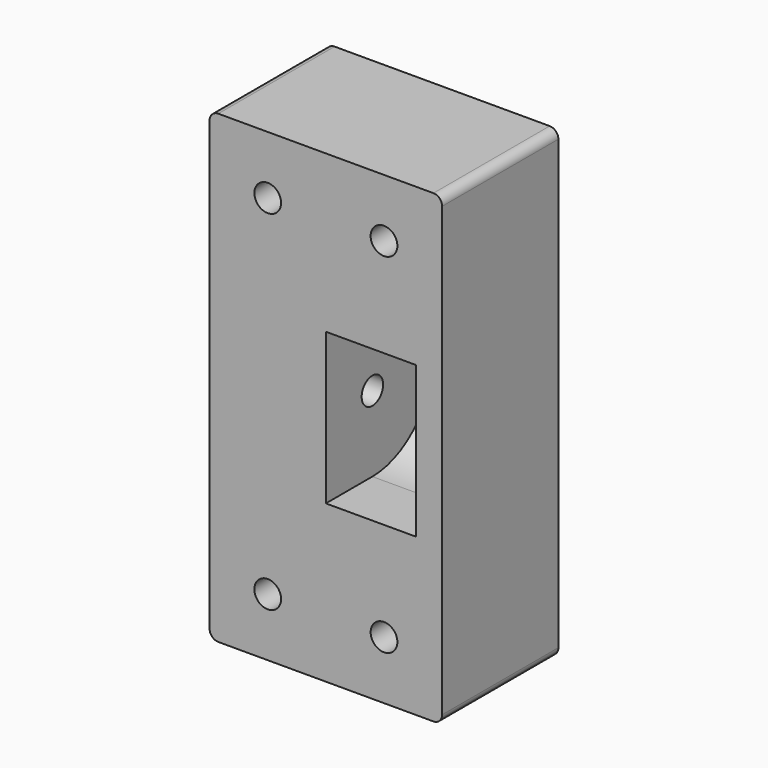
from build123d import *

# Parameters (mm, degrees)
F0_R      = 2.3
F1_DEPTH  = 25
F2_R      = 5
F2_R_2    = 5.3261161738
F3_DEPTH  = 5
F7_DEPTH  = 15.5
F9_R      = 2.3
F10_DEPTH = 38
F11_R     = 5
F12_DEPTH = 5.5


with BuildPart() as f1:
    # F0 (on Front) → F1 (new body)
    with BuildSketch(Plane.XZ):
        with BuildLine():
            ThreePointArc((18.5, -40), (19.5606601718, -39.5606601718), (20, -38.5))
            Line((20, -38.5), (20, 38.5))
            ThreePointArc((20, 38.5), (19.5606601718, 39.5606601718), (18.5, 40))
            Line((18.5, 40), (-18.5, 40))
            ThreePointArc((-18.5, 40), (-19.5606601718, 39.5606601718), (-20, 38.5))
            Line((-20, 38.5), (-20, -38.5))
            ThreePointArc((-20, -38.5), (-19.5606601718, -39.5606601718), (-18.5, -40))
            Line((-18.5, -40), (18.5, -40))
        make_face()
        with Locations((-10, -30)):
            Circle(F0_R, mode=Mode.SUBTRACT)
        with Locations((10, -30)):
            Circle(F0_R, mode=Mode.SUBTRACT)
        with Locations((-10, 30)):
            Circle(F0_R, mode=Mode.SUBTRACT)
        with Locations((10, 30)):
            Circle(F0_R, mode=Mode.SUBTRACT)
    extrude(amount=F1_DEPTH)

    # F2 (on face) → F3 (cut)
    with BuildSketch(Plane(origin=(0, 0, 0), x_dir=(-1, 0, 0), z_dir=(0, 1, 0))):
        with Locations((-10, 30)):
            Circle(F2_R)
        with Locations((10, 30)):
            Circle(F2_R)
        with Locations((10, -30)):
            Circle(F2_R_2)
        with Locations((-10, -30)):
            Circle(F2_R)
    extrude(amount=-F3_DEPTH, mode=Mode.SUBTRACT)

    # F6 (on offset) → F7 (cut, through all)
    with BuildSketch(Plane(origin=(0, 0, 0), x_dir=(0, -1, 0), z_dir=(-1, 0, 0))):
        with BuildLine():
            Line((15, -13), (25, -13))
            Line((25, -13), (25, 13))
            Line((25, 13), (15, 13))
            ThreePointArc((15, 13), (2, 0), (15, -13))
        make_face()
    extrude(amount=-F7_DEPTH, mode=Mode.SUBTRACT)

    # F9 (on face) → F10 (cut, through all)
    with BuildSketch(Plane(origin=(-20, 0, 0), x_dir=(0, -1, 0), z_dir=(-1, 0, 0))):
        with Locations((15, 0)):
            Circle(F9_R)
    extrude(amount=-F10_DEPTH, mode=Mode.SUBTRACT)

    # F11 (on face) → F12 (cut)
    with BuildSketch(Plane(origin=(-20, 0, 0), x_dir=(0, -1, 0), z_dir=(-1, 0, 0))):
        with Locations((15, 0)):
            Circle(F11_R)
    extrude(amount=-F12_DEPTH, mode=Mode.SUBTRACT)


solid = f1.part
